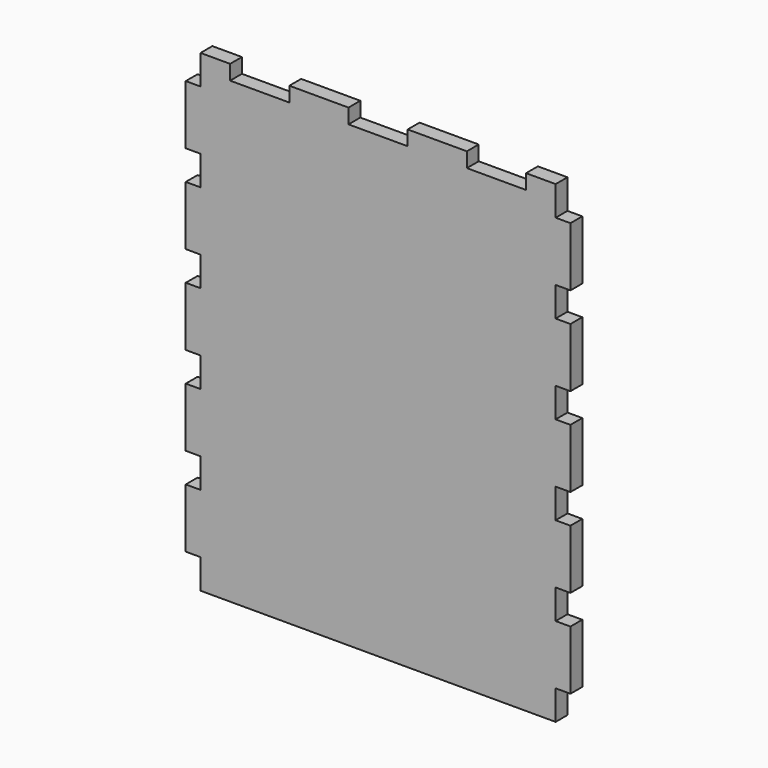
from build123d import *

# Parameters (mm, degrees)
F0_W     = 82.55
F0_H     = 101.6
F1_DEPTH = 3.175
F2_W     = 3.175
F2_H     = 6.35
F3_DEPTH = 3.176
F4_W     = 12.7
F4_H     = 3.175
F5_DEPTH = 3.176


with BuildPart() as f1:
    # F0 (on Front) → F1 (new body)
    with BuildSketch(Plane.XZ):
        Rectangle(F0_W, F0_H)
    extrude(amount=F1_DEPTH)

    # F2 (on face) → F3 (cut, through all)
    with BuildSketch(Plane.XZ.offset(3.175)):
        with Locations((-39.6875, -47.625)):
            Rectangle(F2_W, F2_H)
        with Locations((-39.6875, -28.575)):
            Rectangle(F2_W, F2_H)
        with Locations((-39.6875, -9.525)):
            Rectangle(F2_W, F2_H)
        with Locations((-39.6875, 9.525)):
            Rectangle(F2_W, F2_H)
        with Locations((-39.6875, 28.575)):
            Rectangle(F2_W, F2_H)
        with Locations((-39.6875, 47.625)):
            Rectangle(F2_W, F2_H)
        with Locations((39.6875, -47.625)):
            Rectangle(F2_W, F2_H)
        with Locations((39.6875, -9.525)):
            Rectangle(F2_W, F2_H)
        with Locations((39.6875, 9.525)):
            Rectangle(F2_W, F2_H)
        with Locations((39.6875, -28.575)):
            Rectangle(F2_W, F2_H)
        with Locations((39.6875, 28.575)):
            Rectangle(F2_W, F2_H)
        with Locations((39.6875, 47.625)):
            Rectangle(F2_W, F2_H)
    extrude(amount=-F3_DEPTH, mode=Mode.SUBTRACT)

    # F4 (on face) → F5 (cut, through all)
    with BuildSketch(Plane.XZ.offset(3.175)):
        with Locations((-25.4, 49.2125)):
            Rectangle(F4_W, F4_H)
        with Locations((0, 49.2125)):
            Rectangle(F4_W, F4_H)
        with Locations((25.4, 49.2125)):
            Rectangle(F4_W, F4_H)
    extrude(amount=-F5_DEPTH, mode=Mode.SUBTRACT)


solid = f1.part
